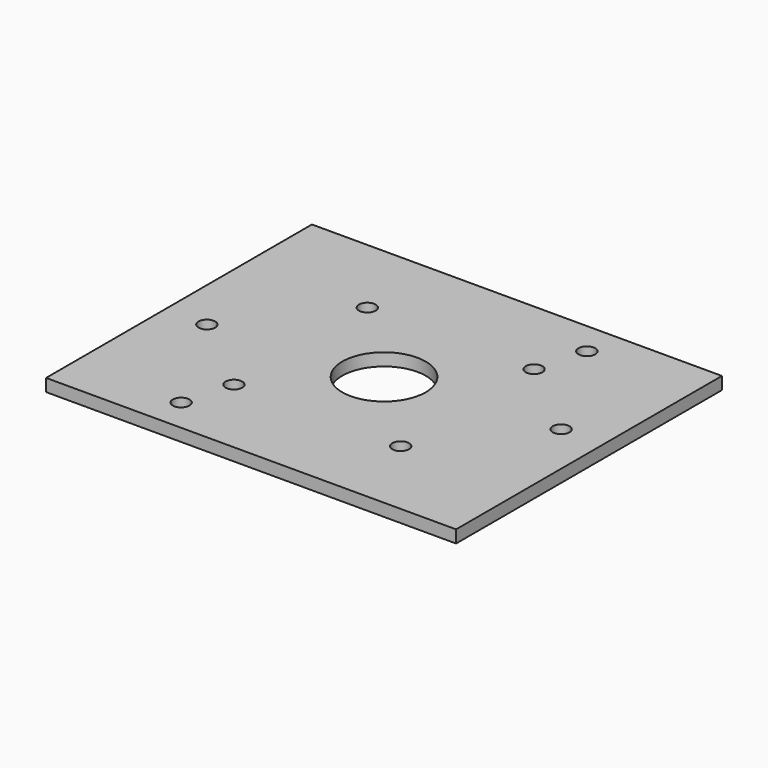
from build123d import *

# Parameters (mm, degrees)
F0_W     = 49.176914
F0_H     = 39.856406
F0_R     = 1
F1_DEPTH = 1.5
F2_R     = 1
F2_R_2   = 5
F3_DEPTH = 1.5


with BuildPart() as f1:
    # F0 (on Top) → F1 (new body)
    with BuildSketch(Plane.XY):
        Rectangle(F0_W, F0_H)
        with Locations((-11.588457, -15.928203)):
            Circle(F0_R, mode=Mode.SUBTRACT)
        with Locations((-19.588457, -2.071797)):
            Circle(F0_R, mode=Mode.SUBTRACT)
        with Locations((19.588457, 2.071797)):
            Circle(F0_R, mode=Mode.SUBTRACT)
        with Locations((11.588457, 15.928203)):
            Circle(F0_R, mode=Mode.SUBTRACT)
    extrude(amount=F1_DEPTH)

    # F2 (on face) → F3 (cut, through all)
    with BuildSketch(Plane.XY.offset(1.5)):
        with Locations((-10, 10)):
            Circle(F2_R)
        with Locations((10, 10)):
            Circle(F2_R)
        with Locations((-10, -10)):
            Circle(F2_R)
        with Locations((10, -10)):
            Circle(F2_R)
        Circle(F2_R_2)
    extrude(amount=-F3_DEPTH, mode=Mode.SUBTRACT)


solid = f1.part
